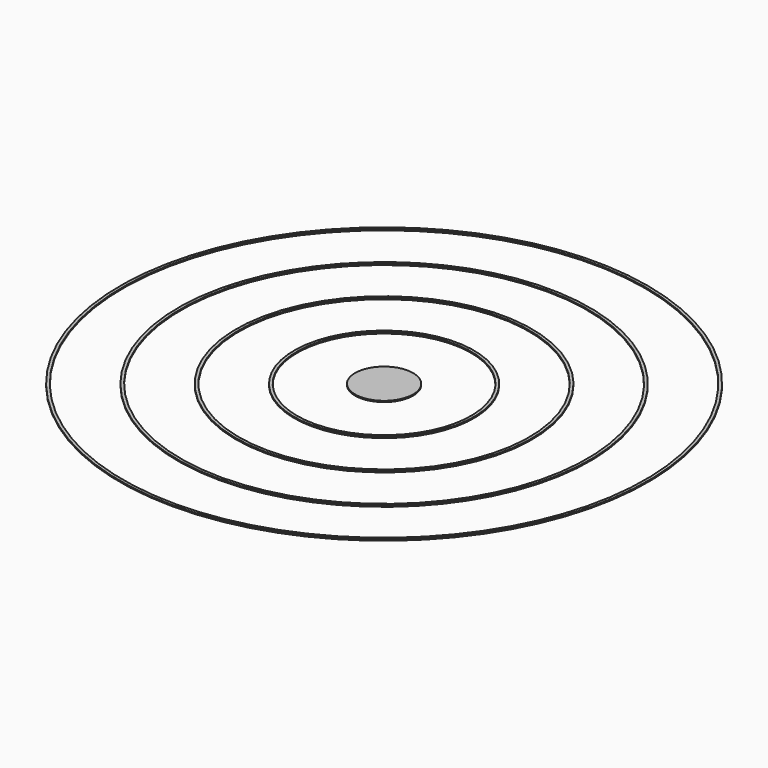
from build123d import *

# Parameters (mm, degrees)
F0_W   = 5
F0_H   = 0.2
F0_W_2 = 0.5


with BuildPart() as f1:
    # F0 (on Right) → F1 (revolve)
    with BuildSketch(Plane.YZ):
        with Locations((-2.5, 0.1)):
            Rectangle(F0_W, F0_H)
        with Locations((-15.25, 0.1)):
            Rectangle(F0_W_2, F0_H)
        with Locations((-25.25, 0.1)):
            Rectangle(F0_W_2, F0_H)
        with Locations((-35.25, 0.082604)):
            Rectangle(F0_W_2, F0_H)
        with Locations((-45.25, 0.146479)):
            Rectangle(F0_W_2, F0_H)
    revolve(axis=Axis((0, 0, 0.1), (0, 0, 1)))


solid = f1.part
